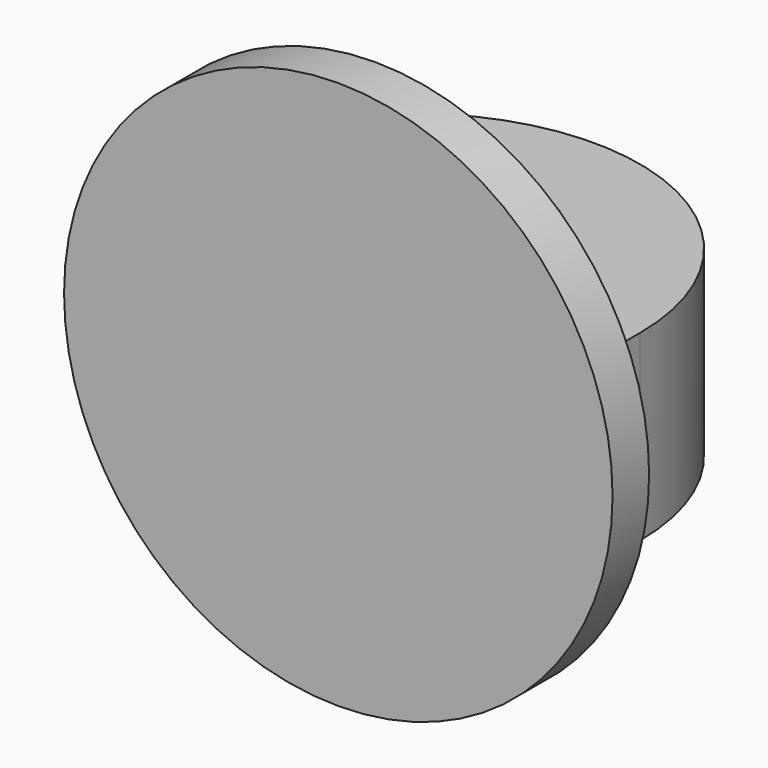
from build123d import *

# Parameters (mm, degrees)
F1_R     = 6.35
F2_DEPTH = 6.35
F0_R     = 19.05
F0_R_2   = 9.525
F3_DEPTH = 3.175


with BuildPart() as f2:
    # F1 (on Top) → F2 (new body, symmetric)
    with BuildSketch(Plane.XY):
        with BuildLine():
            ThreePointArc((15.875, 6.35), (0, 22.225), (-15.875, 6.35))
            Line((-15.875, 6.35), (-15.875, 0))
            Line((-15.875, 0), (15.875, 0))
            Line((15.875, 0), (15.875, 6.35))
        make_face()
        with Locations((0, 9.525)):
            Circle(F1_R, mode=Mode.SUBTRACT)
    extrude(amount=F2_DEPTH, both=True)

    # F0 (on Front) → F3 (join)
    with BuildSketch(Plane.XZ):
        Circle(F0_R)
        Circle(F0_R_2, mode=Mode.SUBTRACT)
        Circle(F0_R_2)
    extrude(amount=-F3_DEPTH)


solid = f2.part
